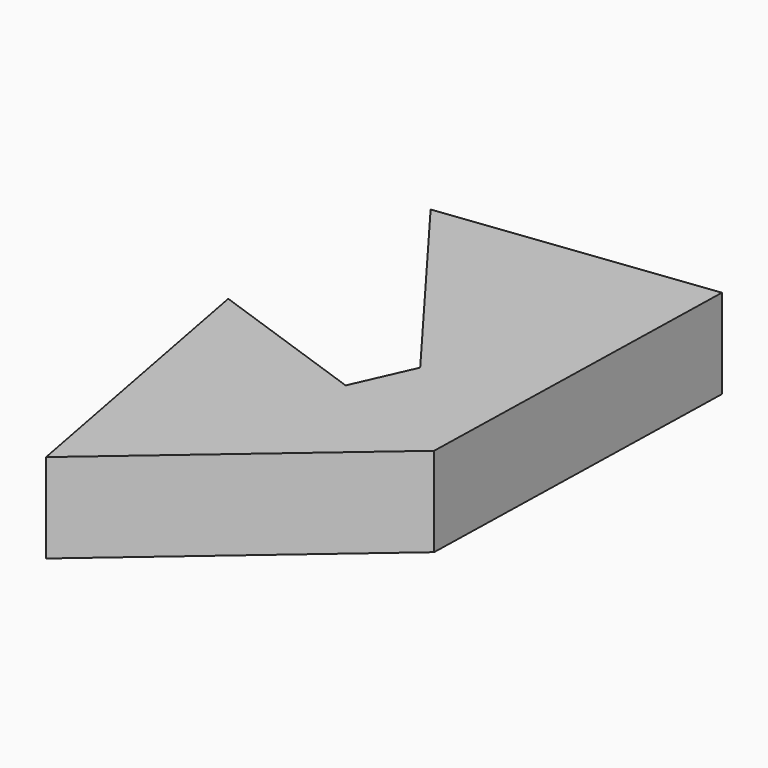
from build123d import *

# Parameters (mm, degrees)
F1_DEPTH = 25


with BuildPart() as f1:
    # F0 (on Top) → F1 (new body)
    with BuildSketch(Plane.XY):
        Polygon((19.639204, -31.020492), (22.021737, 66.735362), (-7.347822, -2.170143), (-14.800628, -18.949018), align=None)
        Polygon((-7.347822, -2.170143), (22.021737, 66.735362), (-52.33696, 57.717394), align=None)
        Polygon((-44.747901, -86.370811), (19.639204, -31.020492), (-14.800628, -18.949018), align=None)
        Polygon((-44.747901, -86.370811), (-14.800628, -18.949018), (-60.489131, -2.934784), align=None)
    extrude(amount=F1_DEPTH)


solid = f1.part
